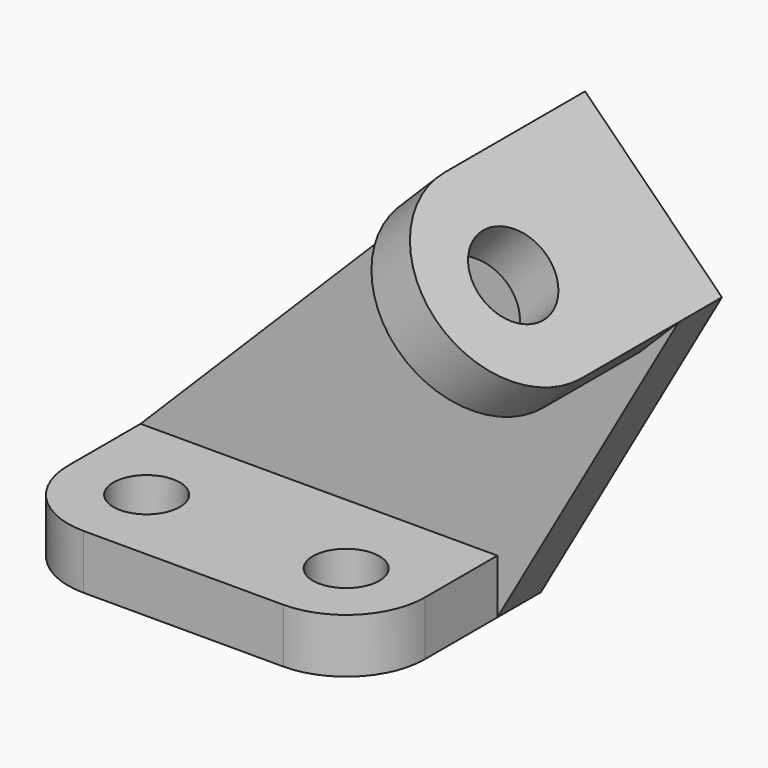
from build123d import *

# Parameters (mm, degrees)
F0_R     = 5.5
F1_DEPTH = 9
F3_DEPTH = 9
F4_R     = 7
F5_DEPTH = 9


with BuildPart() as f1:
    # F0 (on Top) → F1 (new body)
    with BuildSketch(Plane.XY):
        with BuildLine():
            Line((46, 0), (46, 15))
            Line((46, 15), (-13, 15))
            Line((-13, 15), (-13, 0))
            ThreePointArc((-13, 0), (-9.1923881554, -9.1923881554), (0, -13))
            Line((0, -13), (33, -13))
            ThreePointArc((33, -13), (42.1923881554, -9.1923881554), (46, 0))
        make_face()
        Circle(F0_R, mode=Mode.SUBTRACT)
        with Locations((33, 0)):
            Circle(F0_R, mode=Mode.SUBTRACT)
    extrude(amount=F1_DEPTH)

    # F2 (on face) → F3 (join)
    with BuildSketch(Plane(origin=(0, 15, 0), x_dir=(-1, 0, 0), z_dir=(0, 1, 0))):
        Polygon((13, 0), (13, 9), (-53.313708499, 75.313708499), (-75.941125497, 52.686291501), (-46, 0), align=None)
    extrude(amount=F3_DEPTH)

    # F4 (on face) → F5 (join)
    with BuildSketch(Plane(origin=(64.313708499, 0, 64.313708499), x_dir=(0, 1, 0), z_dir=(0.7071067812, 0, 0.7071067812))):
        with BuildLine():
            Line((24, -16.4436508139), (24, 15.5563491861))
            Line((24, 15.5563491861), (-5, 15.5563491861))
            ThreePointArc((-5, 15.5563491861), (-21, -0.4436508139), (-5, -16.4436508139))
            Line((-5, -16.4436508139), (24, -16.4436508139))
        make_face()
        with Locations((-5, -0.4436508139)):
            Circle(F4_R, mode=Mode.SUBTRACT)
    extrude(amount=-F5_DEPTH)


solid = f1.part
